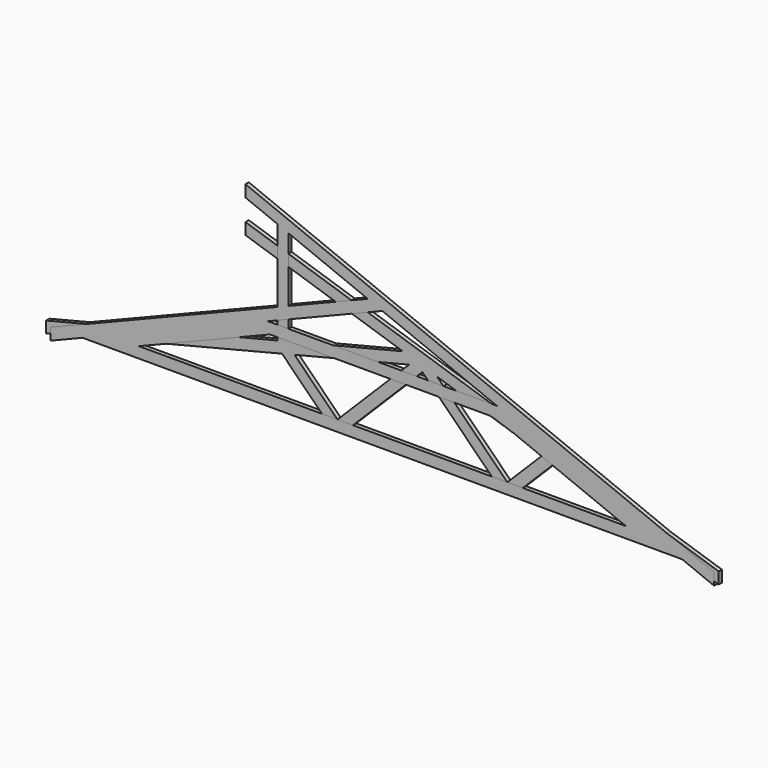
from build123d import *

# Parameters (mm, degrees)
F1_DEPTH = 45
F4_DEPTH = 45
F5_DEPTH = 45


with BuildPart() as f1:
    # F0 (on Front) → F1 (new body)
    with BuildSketch(Plane.XZ):
        Polygon((-3685, -87.264801), (-3335, 0), (-2853.706288, 120), (-1098.894264, 557.523777), (-963.056736, 591.391877), (292.862969, 904.527829), (439.006195, 940.965427), (223.639837, 1010.942199), (-1030, 698.374682), (-1150, 668.455322), (-3685, 36.408835), align=None)
        Polygon((-1150, 1457.264838), (-1150, 668.455322), (-1030, 698.374682), (-1030, 1418.274474), align=None)
        Polygon((2965.677976, 120), (3335, 0), (3685, -113.721894), (3685, 12.453573), (-1500, 1697.162198), (-1500, 1570.986731), (-1150, 1457.264838), (-1030, 1418.274474), (223.639837, 1010.942199), (439.006195, 940.965427), (601.513717, 888.163533), (1761.076119, 511.398869), (1889.163601, 469.780724), align=None)
        Polygon((1199.971623, 120), (1369.67725, 120), (601.513717, 888.163533), (439.006195, 940.965427), (439.006195, 880.965427), align=None)
        Polygon((1369.67725, 120), (1539.382877, 120), (1889.163601, 469.780724), (1761.076119, 511.398869), align=None)
        Polygon((-2853.706288, 120), (-3335, 0), (3335, 0), (2965.677976, 120), (1539.382877, 120), (1369.67725, 120), (1199.971623, 120), (-321.959232, 120), (-491.66486, 120), (-661.370487, 120), align=None)
        Polygon((292.862969, 904.527829), (-491.66486, 120), (-321.959232, 120), (439.006195, 880.965427), (439.006195, 940.965427), align=None)
        Polygon((-1098.894264, 557.523777), (-661.370487, 120), (-491.66486, 120), (-963.056736, 591.391877), align=None)
    extrude(amount=F1_DEPTH)


with BuildPart() as f4:
    # F2 (on Front) → F4 (new body)
    with BuildSketch(Plane.XZ):
        Polygon((-1552.439203, 700), (-3285, 0), (-2964.66394, 0), (-1232.103143, 700), align=None)
        Polygon((-3635, -141.409179), (-3285, 0), (-1552.439203, 700), (-1255.42878, 820), (0, 1327.226152), (-160.16803, 1391.938236), (-1030, 1040.503308), (-1150, 992.020161), (-3635, -11.98501), align=None)
        Polygon((-1255.42878, 820), (-1552.439203, 700), (-1232.103143, 700), (1232.103143, 700), (1552.439203, 700), (1255.42878, 820), align=None)
        Polygon((1552.439203, 700), (1232.103143, 700), (2964.66394, 0), (3285, 0), align=None)
        Polygon((-160.16803, 1391.938236), (0, 1327.226152), (1255.42878, 820), (1552.439203, 700), (3285, 0), (3635, -141.409179), (3635, -11.98501), (-1500, 2062.68966), (-1500, 1933.265491), (-1150, 1791.856312), (-1030, 1743.373164), align=None)
        Polygon((-1150, 1791.856312), (-1150, 992.020161), (-1030, 1040.503308), (-1030, 1743.373164), align=None)
    extrude(amount=F4_DEPTH)


with BuildPart() as f5:
    # F3 (on Front) → F5 (new body)
    with BuildSketch(Plane.XZ):
        Polygon((3285, 0), (3635, -141.409179), (3635, -11.98501), (-1500, 2062.68966), (-1500, 1933.265491), (-1150, 1791.856312), (-1030, 1743.373164), (-160.16803, 1391.938236), (0, 1327.226152), (1255.42878, 820), (1552.439203, 700), (2987.989578, 120), align=None)
        Polygon((-3285, 0), (3285, 0), (2987.989578, 120), (2667.653518, 120), (-2667.653518, 120), (-2987.989578, 120), align=None)
        Polygon((-3635, -141.409179), (-3285, 0), (-2987.989578, 120), (-1552.439203, 700), (-1255.42878, 820), (0, 1327.226152), (-160.16803, 1391.938236), (-1030, 1040.503308), (-1150, 992.020161), (-3635, -11.98501), align=None)
        Polygon((-1030, 1743.373164), (-1150, 1791.856312), (-1150, 992.020161), (-1030, 1040.503308), align=None)
        Polygon((-1552.439203, 700), (-2987.989578, 120), (-2667.653518, 120), (-1232.103143, 700), align=None)
        Polygon((1232.103143, 700), (1552.439203, 700), (1255.42878, 820), (-1255.42878, 820), (-1552.439203, 700), (-1232.103143, 700), align=None)
        Polygon((2667.653518, 120), (2987.989578, 120), (1552.439203, 700), (1232.103143, 700), align=None)
    extrude(amount=F5_DEPTH)


solid = Compound([f1.part, f4.part, f5.part])
